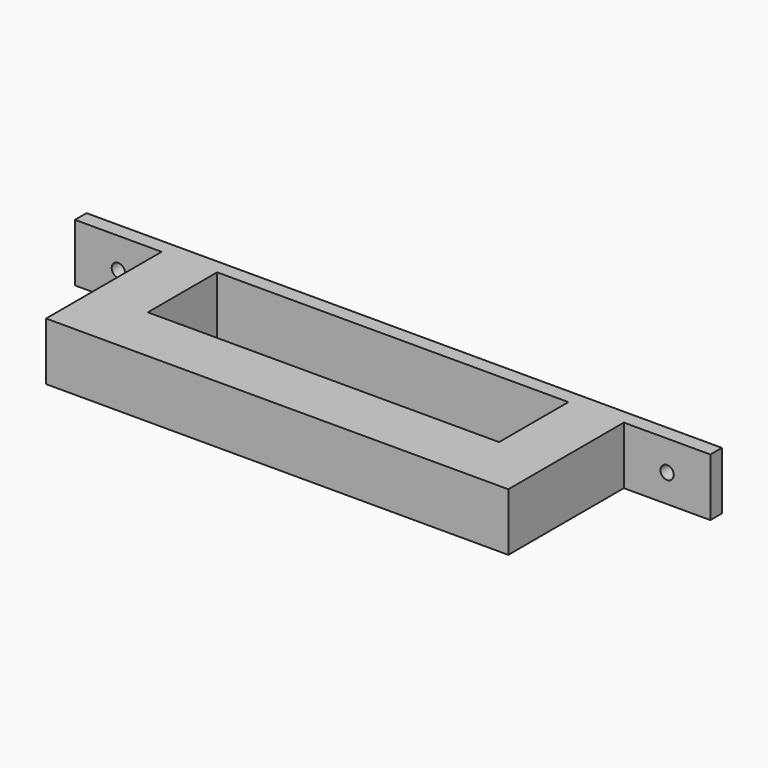
from build123d import *

# Parameters (mm, degrees)
F0_W     = 203.2
F0_H     = 25.4
F1_DEPTH = 25.4
F2_W     = 24.3940738201
F2_H     = 25.4
F2_W_2   = 24.384
F3_DEPTH = 38.1
F4_W     = 38.1
F4_H     = 25.4
F4_W_2   = 203.1179050207
F5_DEPTH = 6.35
F6_R     = 2.921
F7_DEPTH = 25.4
F8_R     = 2.921
F9_DEPTH = 25.4


with BuildPart() as f1:
    # F0 (on Top) → F1 (new body)
    with BuildSketch(Plane.XY):
        Rectangle(F0_W, F0_H)
    extrude(amount=F1_DEPTH)

    # F2 (on face) → F3 (join)
    with BuildSketch(Plane(origin=(0, 12.7, 0), x_dir=(-1, 0, 0), z_dir=(0, 1, 0))):
        with Locations((89.4029630899, 12.7)):
            Rectangle(F2_W, F2_H)
        with Locations((-89.408, 12.7)):
            Rectangle(F2_W_2, F2_H)
    extrude(amount=F3_DEPTH)

    # F4 (on face) → F5 (join)
    with BuildSketch(Plane(origin=(0, 50.8, 0), x_dir=(-1, 0, 0), z_dir=(0, 1, 0))):
        with Locations((120.65, 12.7)):
            Rectangle(F4_W, F4_H)
        with Locations((0.0410474896, 12.7)):
            Rectangle(F4_W_2, F4_H)
        with Locations((-120.5679050207, 12.7)):
            Rectangle(F4_W, F4_H)
    extrude(amount=F5_DEPTH)

    # F6 (on face) → F7 (cut)
    with BuildSketch(Plane.XZ.offset(-50.8)):
        with Locations((-120.65, 12.0200840756)):
            Circle(F6_R)
    extrude(amount=-F7_DEPTH, mode=Mode.SUBTRACT)

    # F8 (on face) → F9 (cut)
    with BuildSketch(Plane.XZ.offset(-50.8)):
        with Locations((120.6089525104, 12.2376885265)):
            Circle(F8_R)
    extrude(amount=-F9_DEPTH, mode=Mode.SUBTRACT)


solid = f1.part
